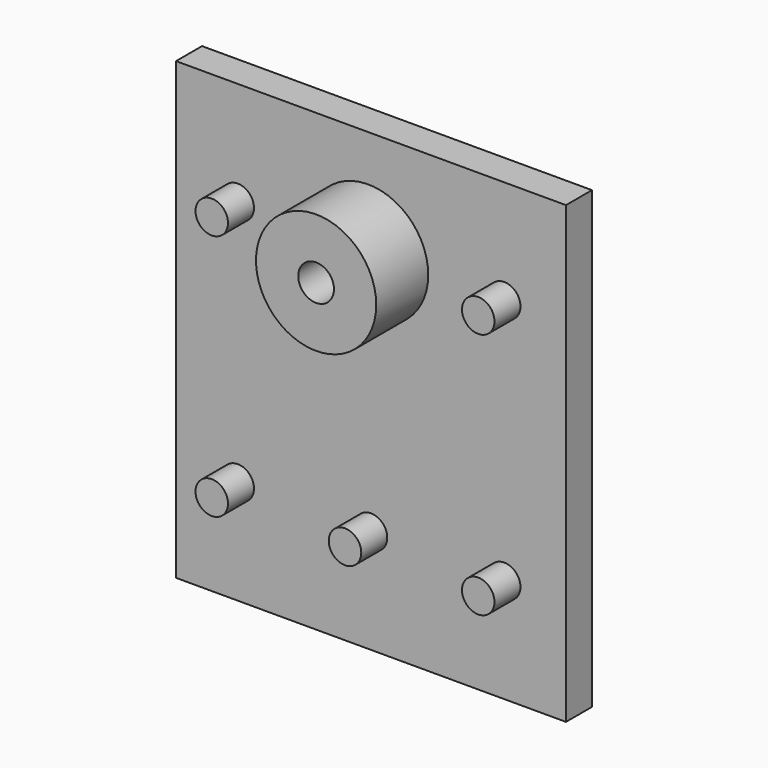
from build123d import *

# Parameters (mm, degrees)
F0_W     = 120
F0_H     = 140
F0_R     = 5
F1_DEPTH = 10
F2_DEPTH = 5
F3_DEPTH = 20
F5_R     = 18.5
F5_R_2   = 5.5
F6_DEPTH = 20


with BuildPart() as f1:
    # F0 (on Front) → F1 (new body)
    with BuildSketch(Plane.XZ):
        Rectangle(F0_W, F0_H)
        with Locations((-41, -38)):
            Circle(F0_R, mode=Mode.SUBTRACT)
        with Locations((0, -38)):
            Circle(F0_R, mode=Mode.SUBTRACT)
        with Locations((41, -38)):
            Circle(F0_R, mode=Mode.SUBTRACT)
        with Locations((-41, 38)):
            Circle(F0_R, mode=Mode.SUBTRACT)
        with Locations((0, 38)):
            Circle(F0_R, mode=Mode.SUBTRACT)
        with Locations((41, 38)):
            Circle(F0_R, mode=Mode.SUBTRACT)
        with Locations((0, 38)):
            Circle(F0_R)
        with Locations((-41, 38)):
            Circle(F0_R)
        with Locations((41, 38)):
            Circle(F0_R)
        with Locations((41, -38)):
            Circle(F0_R)
        with Locations((-41, -38)):
            Circle(F0_R)
    extrude(amount=F1_DEPTH)

    # F0 (on Front) → F2 (cut)
    with BuildSketch(Plane.XZ):
        with Locations((0, 38)):
            Circle(F0_R)
    extrude(amount=F2_DEPTH, mode=Mode.SUBTRACT)

    # F0 (on Front) → F3 (join)
    with BuildSketch(Plane.XZ):
        with Locations((-41, 38)):
            Circle(F0_R)
        with Locations((-41, -38)):
            Circle(F0_R)
        with Locations((41, -38)):
            Circle(F0_R)
        with Locations((41, 38)):
            Circle(F0_R)
        with Locations((0, -38)):
            Circle(F0_R)
    extrude(amount=F3_DEPTH)


with BuildPart() as f6:
    # F5 (on offset) → F6 (new body)
    with BuildSketch(Plane.XZ.offset(11)):
        with Locations((-0.0920584644, 38)):
            Circle(F5_R)
        with Locations((-0.0920584644, 38)):
            Circle(F5_R_2, mode=Mode.SUBTRACT)
    extrude(amount=F6_DEPTH)


solid = Compound([f1.part, f6.part])
